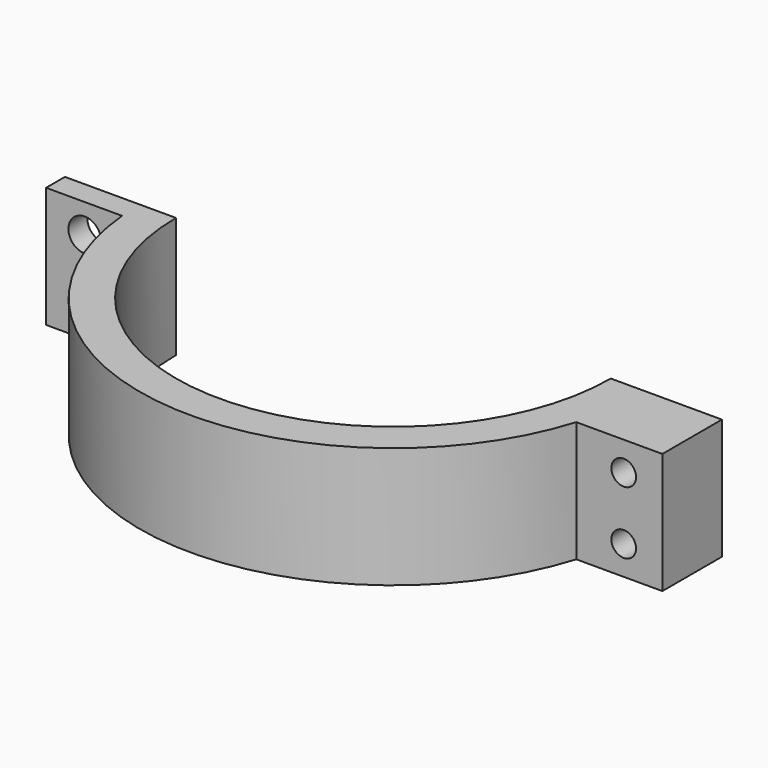
from build123d import *

# Parameters (mm, degrees)
F1_DEPTH = 25
F4_D     = 5.1054
F4_DEPTH = 25
F4_TIP   = 1.5338169022
F5_D     = 6.7564
F5_DEPTH = 25
F5_TIP   = 2.0298273432


with BuildPart() as f1:
    # F0 (on Top) → F1 (new body)
    with BuildSketch(Plane.XY):
        with BuildLine():
            ThreePointArc((45, 0), (0, -45), (-45, 0))
            Line((-45, 0), (-68, 0))
            Line((-68, 0), (-68, -4.880737979))
            Line((-68, -4.880737979), (-52.2726352577, -4.880737979))
            ThreePointArc((-52.2726352577, -4.880737979), (-5.3689869527, -52.2247448926), (50.1862195886, -15.4140638188))
            Line((50.1862195886, -15.4140638188), (68, -15.4140638188))
            Line((68, -15.4140638188), (68, 0))
            Line((68, 0), (45, 0))
        make_face()
    extrude(amount=F1_DEPTH)

    # F4
    with Locations(Plane(origin=(0, 0, 0), x_dir=(-1, 0, 0), z_dir=(0, 1, 0))):
        with Locations((-60, 6), (-60, 19)):
            Hole(F4_D / 2, depth=F4_DEPTH)
            with Locations((0, 0, -(F4_DEPTH + F4_TIP / 2))):  # 118° drill point
                Cone(0, F4_D / 2, F4_TIP, mode=Mode.SUBTRACT)

    # F5
    with Locations(Plane(origin=(0, 0, 0), x_dir=(-1, 0, 0), z_dir=(0, 1, 0))):
        with Locations((60, 6), (60, 19)):
            Hole(F5_D / 2, depth=F5_DEPTH)
            with Locations((0, 0, -(F5_DEPTH + F5_TIP / 2))):  # 118° drill point
                Cone(0, F5_D / 2, F5_TIP, mode=Mode.SUBTRACT)


solid = f1.part
